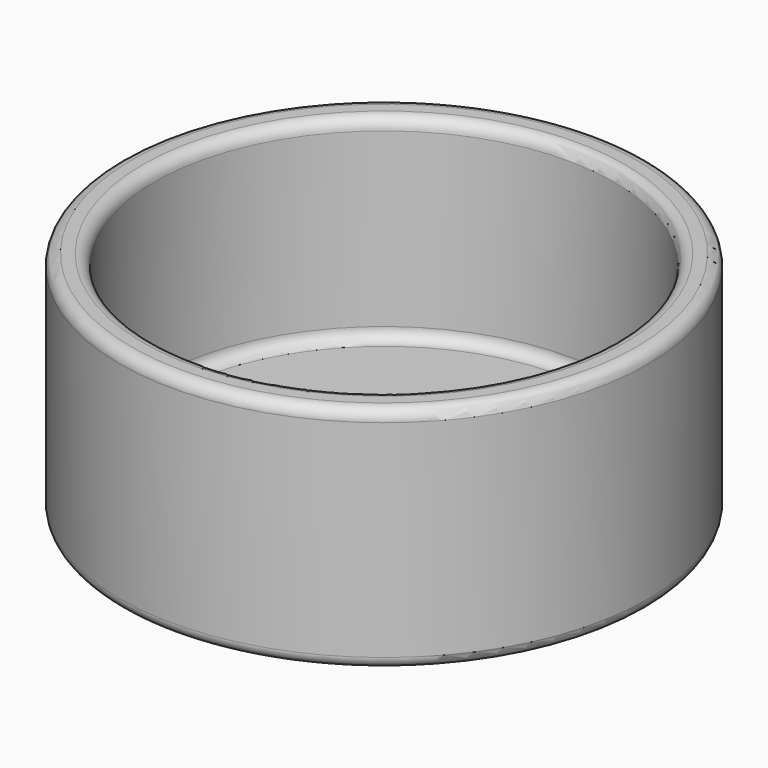
from build123d import *

# Parameters (mm, degrees)
F0_R     = 23
F0_R_2   = 20
F1_DEPTH = 20
F2_R     = 23
F3_DEPTH = 3
F4_R     = 1


with BuildPart() as f1:
    # F0 (on Top) → F1 (new body)
    with BuildSketch(Plane.XY):
        Circle(F0_R)
        Circle(F0_R_2, mode=Mode.SUBTRACT)
    extrude(amount=F1_DEPTH)

    # F2 (on Top) → F3 (join)
    with BuildSketch(Plane.XY):
        Circle(F2_R)
    extrude(amount=F3_DEPTH)

    # F4
    f4_edges = [f1.edges().sort_by_distance(p)[0] for p in [
        (-20, 0, 3),
        (-20, 0, 20),
        (-23, 0, 20),
        (-23, 0, 0),
        (23, 0, 10),
    ]]
    fillet(f4_edges, radius=F4_R)


solid = f1.part
